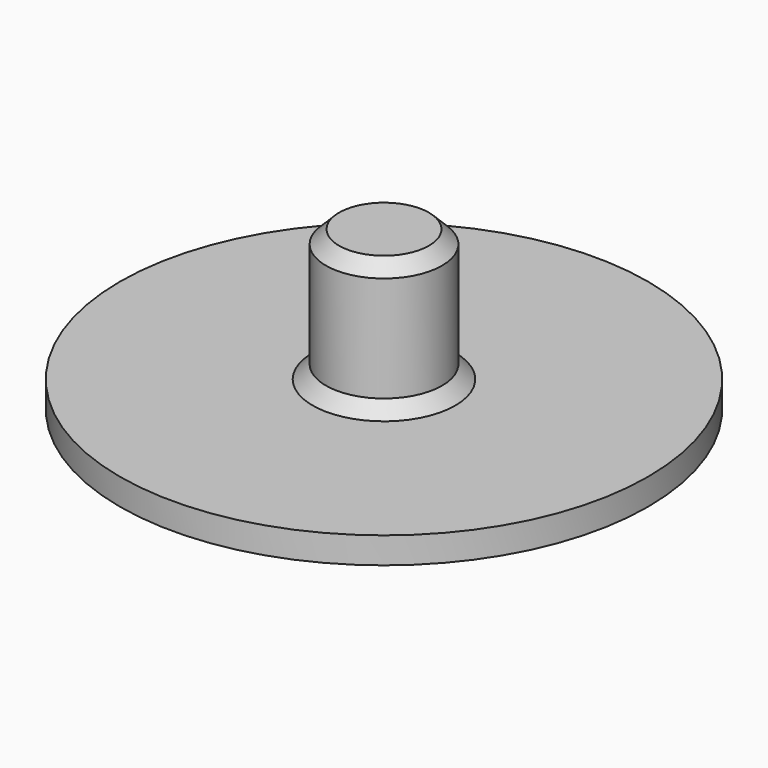
from build123d import *

# Parameters (mm, degrees)
F0_R     = 10
F1_DEPTH = 1
F2_R     = 2.2
F3_DEPTH = 5
F4_SIZE  = 0.5


with BuildPart() as f1:
    # F0 (on Top) → F1 (new body)
    with BuildSketch(Plane.XY):
        Circle(F0_R)
    extrude(amount=F1_DEPTH)

    # F2 (on face) → F3 (join)
    with BuildSketch(Plane.XY.offset(1)):
        Circle(F2_R)
    extrude(amount=F3_DEPTH)

    # F4
    f4_edges = [f1.edges().sort_by_distance(p)[0] for p in [
        (-2.2, 0, 1),
        (-2.2, 0, 6),
    ]]
    chamfer(f4_edges, length=F4_SIZE)


solid = f1.part
